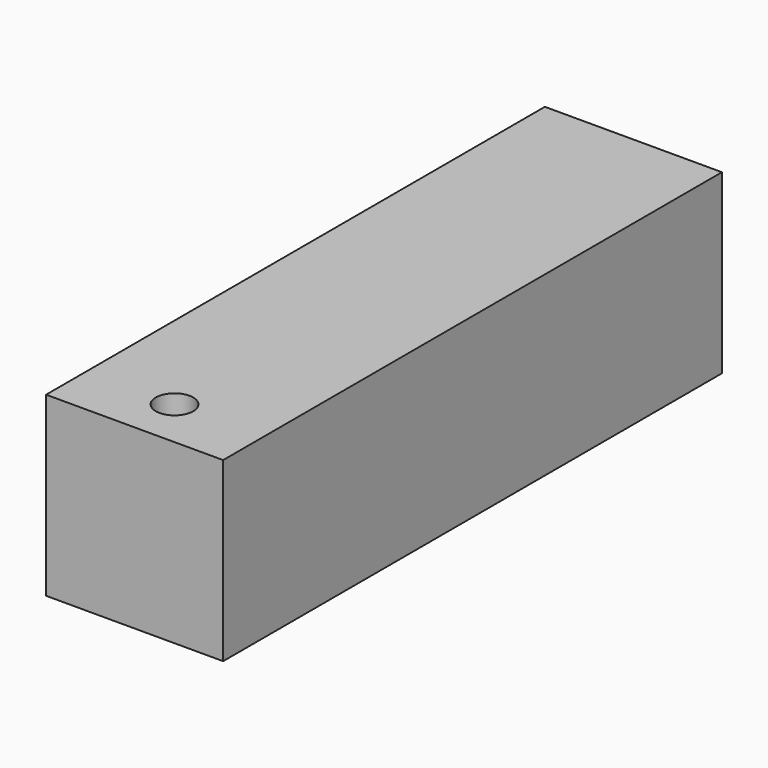
from build123d import *

# Parameters (mm, degrees)
F0_W     = 7.1
F0_H     = 7.1
F1_DEPTH = 25
F2_R     = 0.75
F3_DEPTH = 25
F4_R     = 0.5
F5_DEPTH = 5


with BuildPart() as f1:
    # F0 (on Front) → F1 (new body)
    with BuildSketch(Plane.XZ):
        with Locations((22.369518, -20.953149)):
            Rectangle(F0_W, F0_H)
    extrude(amount=F1_DEPTH)

    # F2 (on face) → F3 (cut)
    with BuildSketch(Plane(origin=(0, 0, -24.503149), x_dir=(1, 0, 0), z_dir=(0, 0, -1))):
        with Locations((22.369518, 23)):
            Circle(F2_R)
    extrude(amount=-F3_DEPTH, mode=Mode.SUBTRACT)

    # F4 (on face) → F5 (cut)
    with BuildSketch(Plane(origin=(0, 0, 0), x_dir=(-1, 0, 0), z_dir=(0, 1, 0))):
        with Locations((-22.369518, -20.953149)):
            Circle(F4_R)
    extrude(amount=-F5_DEPTH, mode=Mode.SUBTRACT)


solid = f1.part
